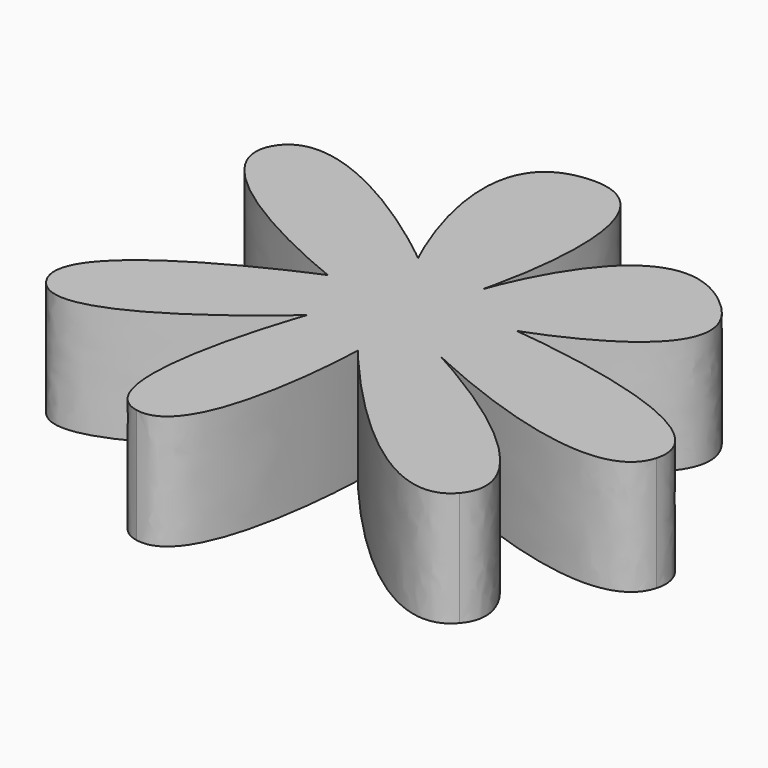
from build123d import *

# Parameters (mm, degrees)
EXTRUDE_DEPTH = 10


with BuildPart() as part:
    # path4136 → Extrude (new body)
    with BuildSketch(Plane(origin=(25.146128, -23.28934, 0), x_dir=(0, -1, 0), z_dir=(0, 0, -1))):
        with BuildLine():
            add(Edge.make_bspline(
                [(-6.754965, 6.542868), (-6.754965, 6.542868), (-22.34897, 14.218491), (-23.124367, 4.848998)],
                knots=[0, 0, 0, 0, 1, 1, 1, 1], degree=3))
            add(Edge.make_bspline(
                [(-23.124367, 4.848998), (-23.899764, -4.520495), (-5.867951, 0.251353), (-5.867951, 0.251353)],
                knots=[0, 0, 0, 0, 1, 1, 1, 1], degree=3))
            add(Edge.make_bspline(
                [(-5.867951, 0.251353), (-5.867951, 0.251353), (-21.422711, -4.936643), (-14.738071, -13.29961)],
                knots=[0, 0, 0, 0, 1, 1, 1, 1], degree=3))
            add(Edge.make_bspline(
                [(-14.738071, -13.29961), (-8.053429, -21.662577), (-2.561817, -5.394881), (-2.561817, -5.394881)],
                knots=[0, 0, 0, 0, 1, 1, 1, 1], degree=3))
            add(Edge.make_bspline(
                [(-2.561817, -5.394881), (-2.561817, -5.394881), (-0.623371, -26.497236), (6.147027, -24.592078)],
                knots=[0, 0, 0, 0, 1, 1, 1, 1], degree=3))
            add(Edge.make_bspline(
                [(6.147027, -24.592078), (12.917425, -22.68692), (3.56663, -3.620353), (3.56663, -3.620353)],
                knots=[0, 0, 0, 0, 1, 1, 1, 1], degree=3))
            add(Edge.make_bspline(
                [(3.56663, -3.620353), (3.56663, -3.620353), (13.171222, -21.915225), (18.565194, -17.332633)],
                knots=[0, 0, 0, 0, 1, 1, 1, 1], degree=3))
            add(Edge.make_bspline(
                [(18.565194, -17.332633), (23.959169, -12.750044), (6.469576, 1.219276), (6.469576, 1.219276)],
                knots=[0, 0, 0, 0, 1, 1, 1, 1], degree=3))
            add(Edge.make_bspline(
                [(6.469576, 1.219276), (6.469576, 1.219276), (23.899764, 1.671698), (22.758341, 7.510794)],
                knots=[0, 0, 0, 0, 1, 1, 1, 1], degree=3))
            add(Edge.make_bspline(
                [(22.758341, 7.510794), (21.616922, 13.34989), (4.534276, 7.188152), (4.534276, 7.188152)],
                knots=[0, 0, 0, 0, 1, 1, 1, 1], degree=3))
            add(Edge.make_bspline(
                [(4.534276, 7.188152), (4.534276, 7.188152), (16.977016, 20.981374), (11.630373, 24.288175)],
                knots=[0, 0, 0, 0, 1, 1, 1, 1], degree=3))
            add(Edge.make_bspline(
                [(11.630373, 24.288175), (6.283732, 27.594978), (-0.949067, 9.769289), (-0.949067, 9.769289)],
                knots=[0, 0, 0, 0, 1, 1, 1, 1], degree=3))
            add(Edge.make_bspline(
                [(-0.949067, 9.769289), (-0.949067, 9.769289), (-7.960454, 27.88166), (-13.528509, 24.610817)],
                knots=[0, 0, 0, 0, 1, 1, 1, 1], degree=3))
            add(Edge.make_bspline(
                [(-13.528509, 24.610817), (-19.096567, 21.339974), (-6.754965, 6.542868), (-6.754965, 6.542868)],
                knots=[0, 0, 0, 0, 1, 1, 1, 1], degree=3))
        make_face()
    extrude(amount=EXTRUDE_DEPTH)


solid = part.part
